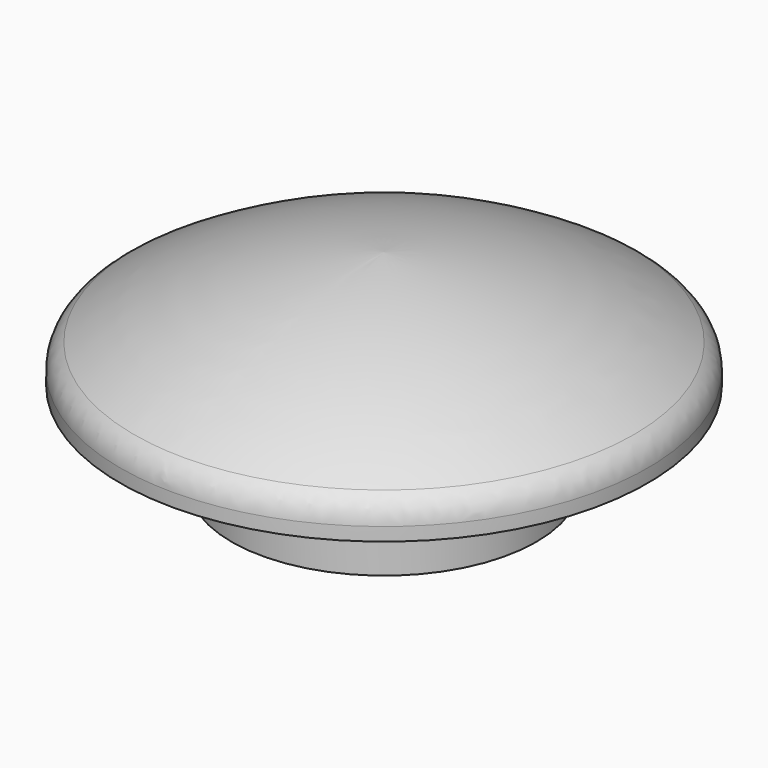
from build123d import *

# Parameters (mm, degrees)
F0_R     = 26
F1_DEPTH = 15
F4_R     = 5


with BuildPart() as f1:
    # F0 (on Top) → F1 (new body)
    with BuildSketch(Plane.XY):
        Circle(F0_R)
    extrude(amount=F1_DEPTH)

    # F2 (on Right) → F3 (revolve)
    with BuildSketch(Plane.YZ):
        with BuildLine():
            Line((-45, 15), (0, 15))
            Line((0, 15), (0, 35))
            ThreePointArc((0, 35), (-23.504386, 30.513157), (-45, 20))
            Line((-45, 20), (-45, 15))
        make_face()
    revolve(axis=Axis((0, 0, 37.347408), (0, 0, 1)))

    # F4
    f4_edges = [f1.edges().sort_by_distance(p)[0] for p in [
        (0, 45, 20),
    ]]
    fillet(f4_edges, radius=F4_R)


solid = f1.part
